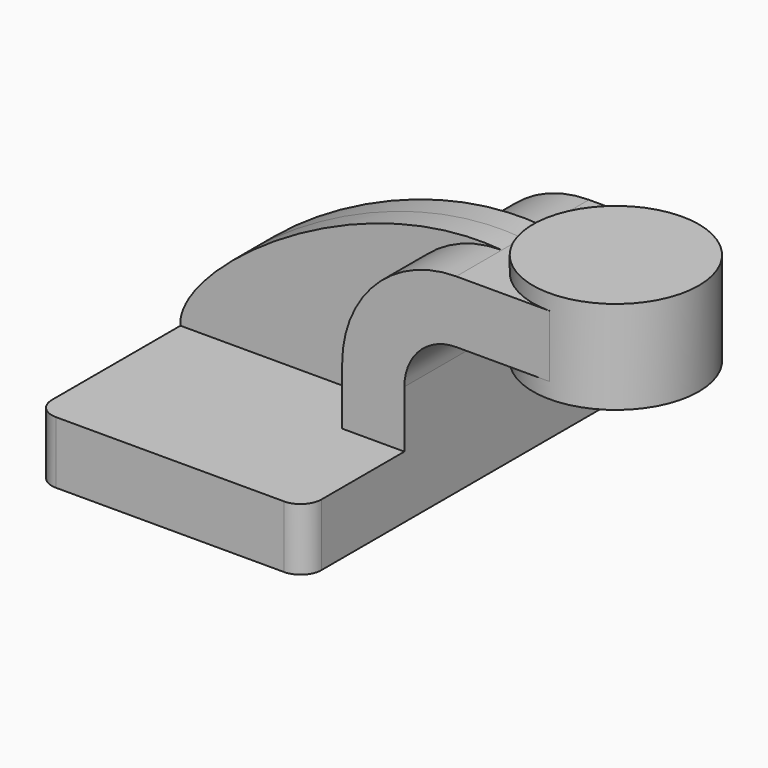
from build123d import *

# Parameters (mm, degrees)
F1_DEPTH = 63.5
F0_W     = 25.4
F0_H     = 19.05
F2_DEPTH = 25.4
F3_DEPTH = 7.9375
F5_R     = 6.35


with BuildPart() as f1:
    # F0 (on Front) → F1 (new body, symmetric)
    with BuildSketch(Plane.XZ):
        Polygon((41.275, -9.525), (41.275, 9.525), (22.225, 9.525), (-41.275, 9.525), (-41.275, -9.525), align=None)
    extrude(amount=F1_DEPTH, both=True)

    # F0 (on Front) → F2 (join, symmetric)
    with BuildSketch(Plane.XZ):
        with Locations((73.025, 52.4002)):
            Rectangle(F0_W, F0_H)
        with BuildLine():
            Line((22.225, 9.525), (41.275, 9.525))
            Line((41.275, 9.525), (41.275, 27.0002))
            ThreePointArc((41.275, 27.0002), (45.9246798487, 38.2255201513), (57.15, 42.8752))
            Line((57.15, 42.8752), (60.325, 42.8752))
            Line((60.325, 42.8752), (60.325, 61.9252))
            Line((60.325, 61.9252), (57.15, 61.9252))
            ThreePointArc((57.15, 61.9252), (32.4542956671, 51.6959043329), (22.225, 27.0002))
            Line((22.225, 27.0002), (22.225, 9.525))
        make_face()
    extrude(amount=F2_DEPTH, both=True)

    # F0 (on Front) → F3 (join, symmetric)
    with BuildSketch(Plane.XZ):
        with BuildLine():
            Line((-41.275, 9.525), (22.225, 9.525))
            Line((22.225, 9.525), (22.225, 27.0002))
            ThreePointArc((22.225, 27.0002), (32.4542956671, 51.6959043329), (57.15, 61.9252))
            add(Edge.make_bspline(
                [(-41.275, 9.525), (-42.6979027689, 25.6473943591), (11.1759584397, 66.0527870059), (57.15, 61.9252)],
                knots=[0, 0, 0, 0, 111.5045361635, 111.5045361635, 111.5045361635, 111.5045361635], degree=3))
        make_face()
    extrude(amount=F3_DEPTH, both=True)

    # F0 (on Front) → F4 (revolve)
    with BuildSketch(Plane.XZ):
        Polygon((85.725, 61.9252), (85.725, 42.8752), (85.725, 38.1), (111.125, 38.1), (111.125, 66.675), (85.725, 66.675), align=None)
    revolve(axis=Axis((85.725, 0, 52.3875), (0, 0, 1)))

    # F5
    f5_edges = [f1.edges().sort_by_distance(p)[0] for p in [
        (41.275, -63.5, 0),
        (-41.275, -63.5, 0),
        (41.275, 63.5, 0),
        (-41.275, 63.5, 0),
    ]]
    fillet(f5_edges, radius=F5_R)


solid = f1.part
